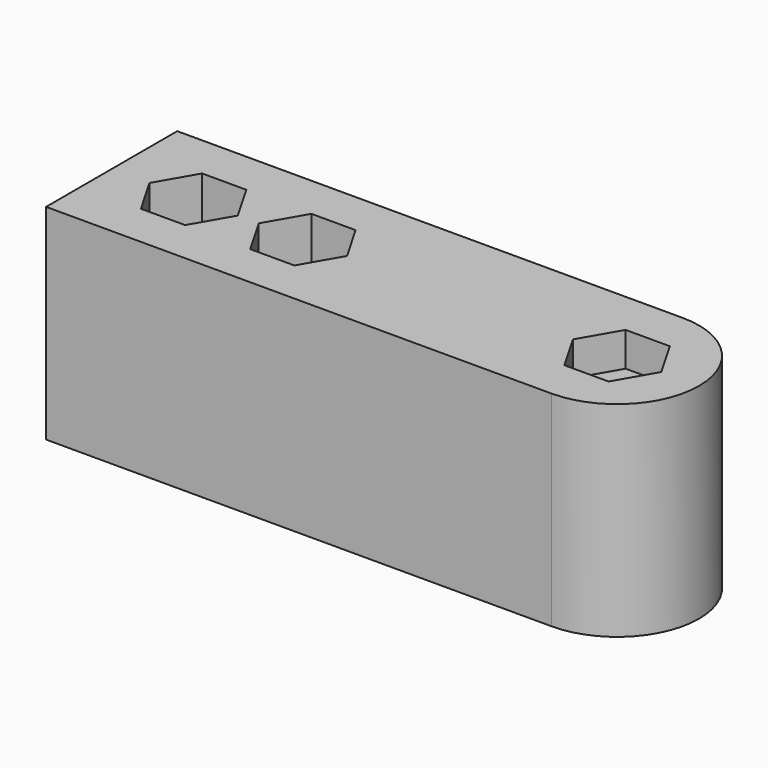
from build123d import *

# Parameters (mm, degrees)
SKETCH_R        = 1.6
PAD_DEPTH       = 15
POCKET_DEPTH    = 3.5
POCKET001_DEPTH = 2.5
POCKET002_DEPTH = 2.5


with BuildPart() as part:
    # Sketch → Pad (new body)
    with BuildSketch(Plane.XY):
        with BuildLine():
            Line((-15.5, 6), (15.5, 6))
            Line((15.5, 6), (21.5, 6))
            ThreePointArc((21.5, -6), (27.5, 0), (21.5, 6))
            Line((15.5, -6), (21.5, -6))
            Line((15.5, -6), (-15.5, -6))
            Line((-15.5, -6), (-15.5, 6))
        make_face()
        with Locations((-9.5, 0)):
            Circle(SKETCH_R, mode=Mode.SUBTRACT)
        with Locations((-1.5, 0)):
            Circle(SKETCH_R, mode=Mode.SUBTRACT)
        with Locations((21.5, 0)):
            Circle(SKETCH_R, mode=Mode.SUBTRACT)
    extrude(amount=PAD_DEPTH)

    # Sketch001 (on Face11 of Pad) → Pocket (cut)
    with BuildSketch(Plane.XY.offset(15)):
        Polygon((-7.883419, 2.8), (-11.116581, 2.8), (-12.733162, 0), (-11.116581, -2.8), (-7.883419, -2.8), (-6.266838, 0), align=None)
        Polygon((0.116581, 2.8), (-3.116581, 2.8), (-4.733162, 0), (-3.116581, -2.8), (0.116581, -2.8), (1.733162, 0), align=None)
    extrude(amount=-POCKET_DEPTH, mode=Mode.SUBTRACT)

    # Sketch002 (on Face5 of Pocket) → Pocket001 (cut)
    with BuildSketch(Plane.XY.offset(15)):
        Polygon((23.116581, 2.8), (19.883419, 2.8), (18.266838, 0), (19.883419, -2.8), (23.116581, -2.8), (24.733162, 0), align=None)
    extrude(amount=-POCKET001_DEPTH, mode=Mode.SUBTRACT)

    # Sketch003 (on Face4 of Pocket001) → Pocket002 (cut)
    with BuildSketch(Plane(origin=(0, 0, 0), x_dir=(1, 0, 0), z_dir=(0, 0, -1))):
        Polygon((24.733162, 0), (23.116581, 2.8), (19.883419, 2.8), (18.266838, 0), (19.883419, -2.8), (23.116581, -2.8), align=None)
    extrude(amount=-POCKET002_DEPTH, mode=Mode.SUBTRACT)


solid = part.part
